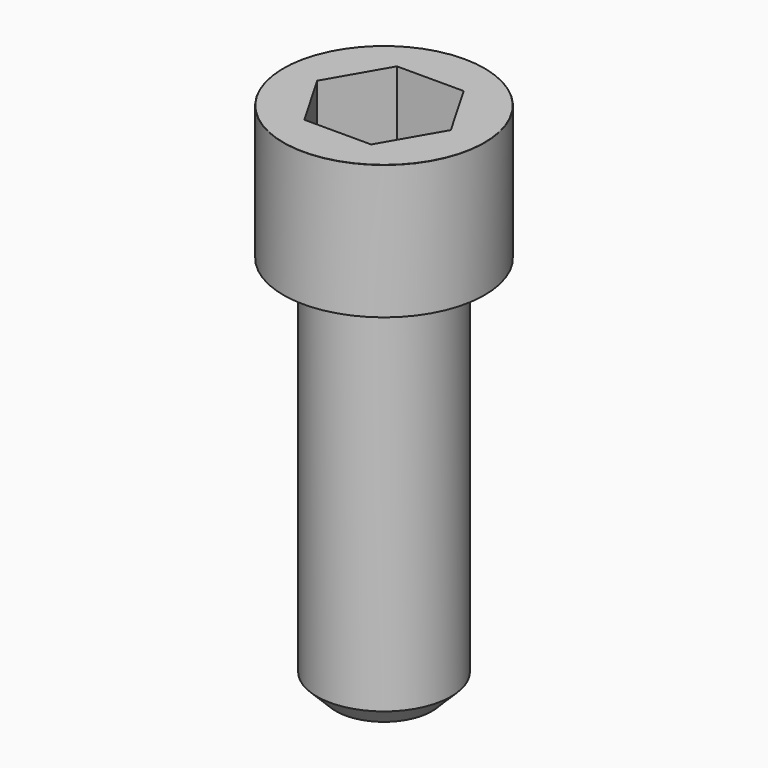
from build123d import *

# Parameters (mm, degrees)
POCKET_DEPTH = 12.07


with BuildPart() as part:
    # Sketch → Revolve (revolve)
    with BuildSketch(Plane.YZ):
        with BuildLine():
            Line((6.999, 0), (10.5, 0))
            Line((10.5, 0), (10.5, 13.97229))
            ThreePointArc((10.5, 13.97229), (10.491884, 13.991884), (10.47229, 14))
            Line((10.47229, 14), (0, 14))
            Line((0, -40), (0, 14))
            Line((5, -40), (0, -40))
            Line((7, -38), (5, -40))
            Line((7, -0.2), (7, -38))
            Line((6.999, 0), (7, -0.2))
        make_face()
    revolve(axis=Axis((0, 0, 0), (0, 0, 1)))

    # Sketch001 → Pocket (cut)
    with BuildSketch(Plane.XY.offset(14)):
        Polygon((6.968618, 0), (3.484309, 6.035), (-3.484309, 6.035), (-6.968618, 0), (-3.484309, -6.035), (3.484309, -6.035), align=None)
    extrude(amount=-POCKET_DEPTH, mode=Mode.SUBTRACT)


solid = part.part
